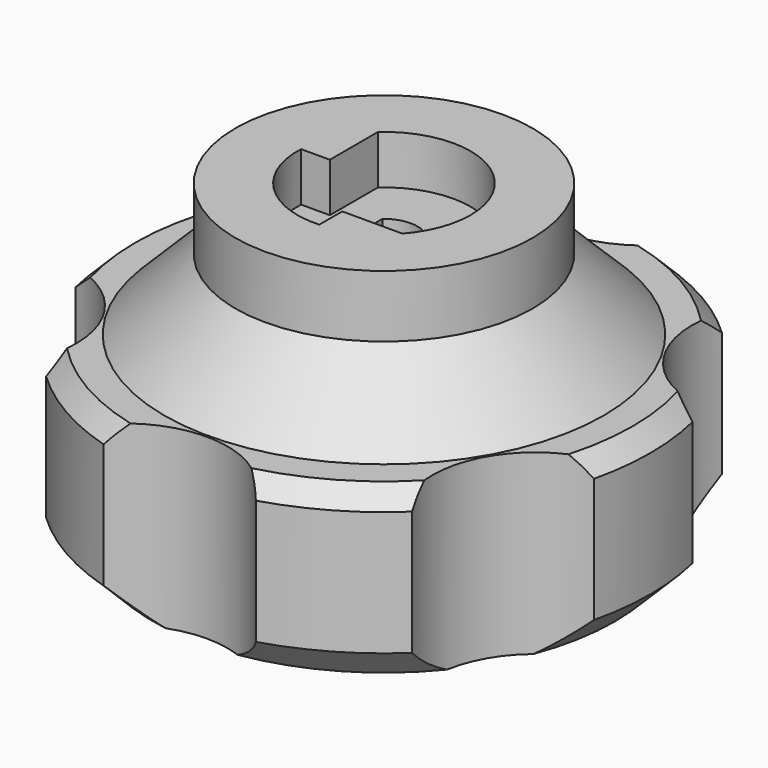
from build123d import *

# Parameters (mm, degrees)
SKETCH_R           = 30
PAD_DEPTH          = 35
SKETCH001_R        = 9.75
POCKET_DEPTH       = 5.5
POCKET001_DEPTH    = 3.5
SKETCH003_R        = 1.75
POCKET002_DEPTH    = 26.001
PAD001_DEPTH       = 9
SKETCH006_R        = 36.546669
SKETCH006_R_2      = 16.734949
POCKET003_DEPTH    = 15
SKETCH008_R        = 11.576804
POCKET004_DEPTH    = 218.576598
POLARPATTERN_COUNT = 6
CHAMFER_SIZE       = 4
CHAMFER001_SIZE    = 2
SKETCH009_R        = 3
POCKET005_DEPTH    = 23
CHAMFER002_SIZE    = 2
CHAMFER003_SIZE    = 8


with BuildPart() as part:
    # Sketch → Pad (new body)
    with BuildSketch(Plane.XY):
        Circle(SKETCH_R)
    extrude(amount=PAD_DEPTH)

    # Sketch001 (on Face3 of Pad) → Pocket (cut)
    with BuildSketch(Plane.XY.offset(35)):
        Circle(SKETCH001_R)
    extrude(amount=-POCKET_DEPTH, mode=Mode.SUBTRACT)

    # Sketch002 (on Face5 of Pocket) → Pocket001 (cut)
    with BuildSketch(Plane.XY.offset(29.5)):
        with BuildLine():
            Line((2.45, -2.839014), (2.45, 2.839014))
            ThreePointArc((2.45, 2.839014), (0, 3.75), (-2.45, 2.839014))
            Line((-2.45, -2.839014), (-2.45, 2.839014))
            ThreePointArc((-2.45, -2.839014), (0, -3.75), (2.45, -2.839014))
        make_face()
    extrude(amount=-POCKET001_DEPTH, mode=Mode.SUBTRACT)

    # Sketch003 (on Face10 of Pocket001) → Pocket002 (cut, through all)
    with BuildSketch(Plane.XY.offset(26)):
        Circle(SKETCH003_R)
    extrude(amount=-POCKET002_DEPTH, mode=Mode.SUBTRACT)

    # Sketch004 (on Face3 of Pocket002) → Pad001 (join)
    with BuildSketch(Plane.XY.offset(35)):
        Polygon((-6.5, 10.255921), (-6.5, 0.5), (-12.416934, 0.5), align=None)
        Polygon((0.5, -6.5), (0.5, -15.116689), (10.696822, -6.5), align=None)
    extrude(amount=-PAD001_DEPTH)

    # Sketch006 (on Face3 of Pad001) → Pocket003 (cut)
    with BuildSketch(Plane.XY.offset(35)):
        Circle(SKETCH006_R)
        Circle(SKETCH006_R_2, mode=Mode.SUBTRACT)
    extrude(amount=-POCKET003_DEPTH, mode=Mode.SUBTRACT)

    # Sketch008 (on Face2 of Pocket003) → Pocket004 (cut, through all)
    with BuildSketch(Plane(origin=(0, 0, 0), x_dir=(1, 0, 0), z_dir=(0, 0, -1))):
        with Locations((0, 36.523853)):
            Circle(SKETCH008_R)
    pocket004 = extrude(amount=-POCKET004_DEPTH, mode=Mode.SUBTRACT)

    # PolarPattern: Pocket004 ×6 about axis
    polarpattern_axis = Axis((0, 0, 0), (0, 0, -1))
    for i in range(1, POLARPATTERN_COUNT):
        add(pocket004.rotate(polarpattern_axis, i * 360 / POLARPATTERN_COUNT), mode=Mode.SUBTRACT)

    # Chamfer
    chamfer_edges = [part.edges().sort_by_distance(p)[0] for p in [
        (15, -25.980762, 0),
        (-15, -25.980762, 0),
        (-30, 0, 0),
        (-15, 25.980762, 0),
        (15, 25.980762, 0),
        (29.795478, 3.497065, 0),
    ]]
    chamfer(chamfer_edges, length=CHAMFER_SIZE)

    # Chamfer001
    chamfer001_edges = [part.edges().sort_by_distance(p)[0] for p in [
        (29.795478, -3.497065, 20),
        (15, -25.980762, 20),
        (15, 25.980762, 20),
        (-15, 25.980762, 20),
        (-15, -25.980762, 20),
        (-30, 0, 20),
    ]]
    chamfer(chamfer001_edges, length=CHAMFER001_SIZE)

    # Sketch009 (on Face10 of Chamfer001) → Pocket005 (cut)
    with BuildSketch(Plane(origin=(0, 0, 0), x_dir=(1, 0, 0), z_dir=(0, 0, -1))):
        Circle(SKETCH009_R)
    extrude(amount=-POCKET005_DEPTH, mode=Mode.SUBTRACT)

    # Chamfer002
    chamfer002_edges = [part.edges().sort_by_distance(p)[0] for p in [
        (-3, 0, 0),
    ]]
    chamfer(chamfer002_edges, length=CHAMFER002_SIZE)

    # Chamfer003
    chamfer003_edges = [part.edges().sort_by_distance(p)[0] for p in [
        (-16.734949, 0, 20),
    ]]
    chamfer(chamfer003_edges, length=CHAMFER003_SIZE)


solid = part.part
